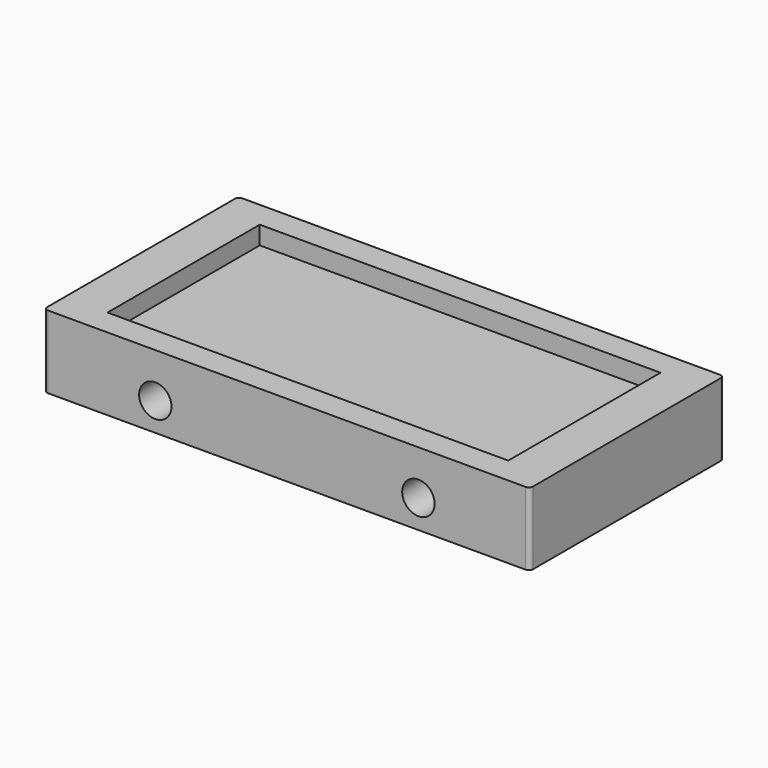
from build123d import *

# Parameters (mm, degrees)
F0_W     = 24
F0_H     = 12
F0_W_2   = 19.8
F0_H_2   = 9.4
F1_DEPTH = 0.9
F2_W     = 24
F2_H     = 12
F3_DEPTH = 2.7
F4_R     = 1.6
F5_DEPTH = 1.2
F6_R     = 0.2
F7_R     = 0.8
F8_DEPTH = 5


with BuildPart() as f1:
    # F0 (on Top) → F1 (new body)
    with BuildSketch(Plane.XY):
        Rectangle(F0_W, F0_H)
        Rectangle(F0_W_2, F0_H_2, mode=Mode.SUBTRACT)
    extrude(amount=F1_DEPTH)

    # F2 (on face) → F3 (join)
    with BuildSketch(Plane(origin=(0, 0, 0), x_dir=(1, 0, 0), z_dir=(0, 0, -1))):
        Rectangle(F2_W, F2_H)
    extrude(amount=F3_DEPTH)

    # F4 (on face) → F5 (cut)
    with BuildSketch(Plane(origin=(0, 0, -2.7), x_dir=(1, 0, 0), z_dir=(0, 0, -1))):
        Circle(F4_R)
        with Locations((-9, 0)):
            Circle(F4_R)
        with Locations((9, 0)):
            Circle(F4_R)
    extrude(amount=-F5_DEPTH, mode=Mode.SUBTRACT)

    # F6
    f6_edges = [f1.edges().sort_by_distance(p)[0] for p in [
        (-12, -6, -0.9),
        (-12, 6, -0.9),
        (12, 6, -0.9),
        (12, -6, -0.9),
    ]]
    fillet(f6_edges, radius=F6_R)

    # F7 (on face) → F8 (cut)
    with BuildSketch(Plane.XZ.offset(6)):
        with Locations((-6.5, -1.3)):
            Circle(F7_R)
        with Locations((6.5, -1.3)):
            Circle(F7_R)
    extrude(amount=-F8_DEPTH, mode=Mode.SUBTRACT)


solid = f1.part
